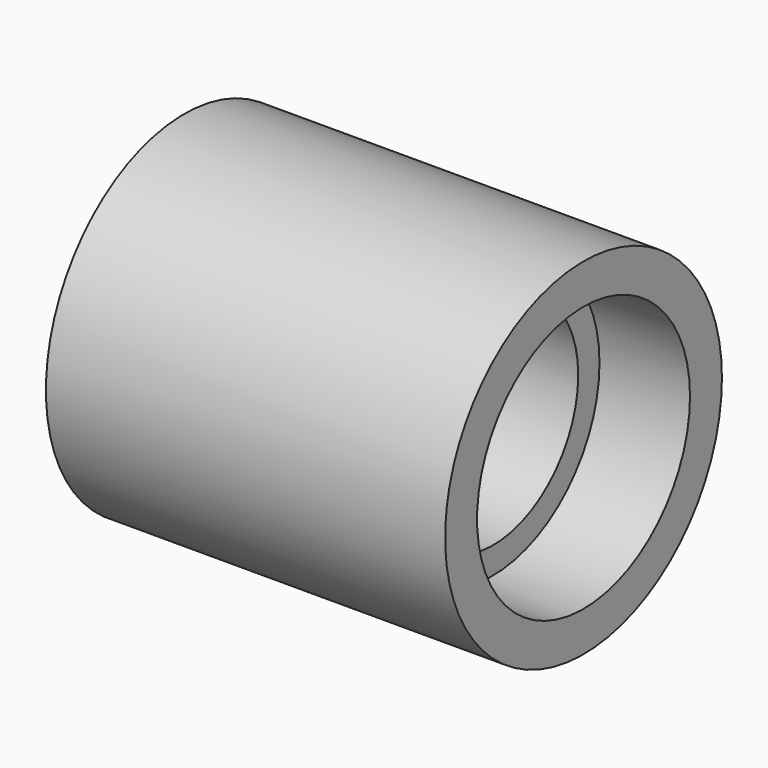
from build123d import *

# Parameters (mm, degrees)
F0_R     = 32.5
F0_R_2   = 20
F1_DEPTH = 37.5
F2_R     = 25
F2_R_2   = 20
F3_DEPTH = 17
F4_R     = 25
F4_R_2   = 20
F5_DEPTH = 17


with BuildPart() as f1:
    # F0 (on Right) → F1 (new body, symmetric)
    with BuildSketch(Plane.YZ):
        Circle(F0_R)
        Circle(F0_R_2, mode=Mode.SUBTRACT)
    extrude(amount=F1_DEPTH, both=True)

    # F2 (on face) → F3 (cut)
    with BuildSketch(Plane.YZ.offset(37.5)):
        Circle(F2_R)
        Circle(F2_R_2, mode=Mode.SUBTRACT)
    extrude(amount=-F3_DEPTH, mode=Mode.SUBTRACT)

    # F4 (on face) → F5 (cut)
    with BuildSketch(Plane(origin=(-37.5, 0, 0), x_dir=(0, -1, 0), z_dir=(-1, 0, 0))):
        Circle(F4_R)
        Circle(F4_R_2, mode=Mode.SUBTRACT)
    extrude(amount=-F5_DEPTH, mode=Mode.SUBTRACT)


solid = f1.part
